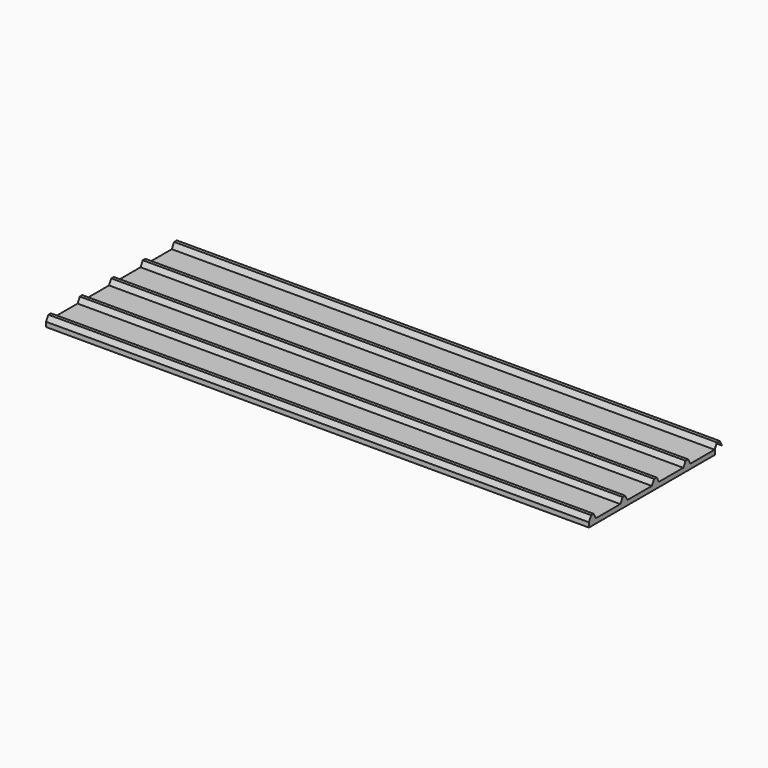
from build123d import *

# Parameters (mm, degrees)
F0_W     = 3450
F0_H     = 1000
F1_DEPTH = 30
F3_DEPTH = 3450


with BuildPart() as f1:
    # F0 (on Top) → F1 (new body)
    with BuildSketch(Plane.XY):
        with Locations((1725, 500)):
            Rectangle(F0_W, F0_H)
    extrude(amount=F1_DEPTH)

    # F2 (on face) → F3 (join)
    with BuildSketch(Plane.YZ.offset(3450)):
        Polygon((18, 62), (0, 30), (56, 30), (38, 62), align=None)
        Polygon((268, 62), (250, 30), (306, 30), (288, 62), align=None)
        Polygon((518, 62), (500, 30), (556, 30), (538, 62), align=None)
        Polygon((750, 30), (806, 30), (788, 62), (768, 62), align=None)
        Polygon((998.852653, 30), (1000, 30), (1018, 62), (1038, 62), (1056, 30), (1056.871576, 30.490261), (1038.584847, 63), (1017.415153, 63), align=None)
    extrude(amount=-F3_DEPTH)


solid = f1.part
